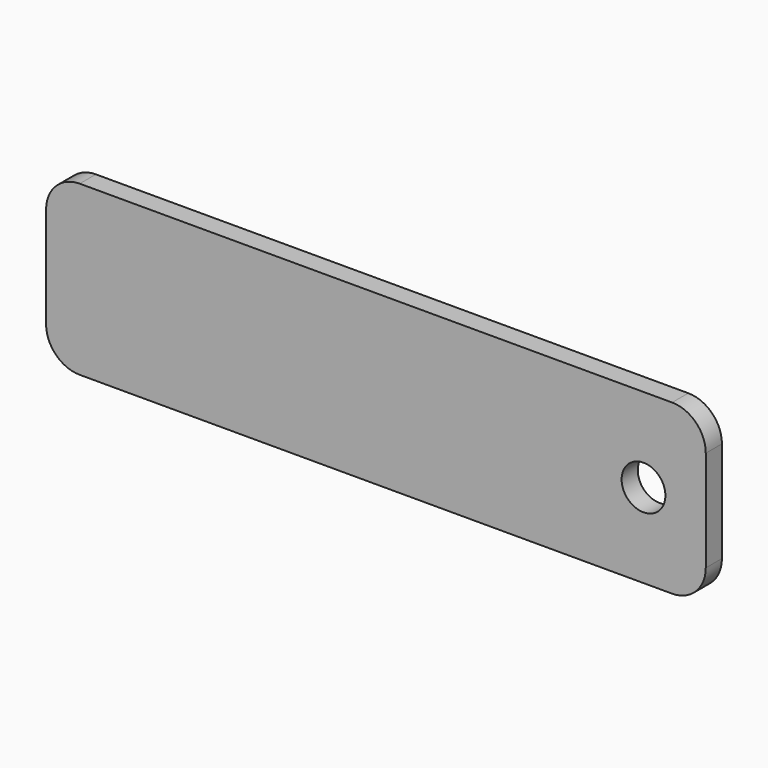
from build123d import *

# Parameters (mm, degrees)
F0_R     = 3.25
F1_DEPTH = 3


with BuildPart() as f1:
    # F0 (on Front) → F1 (new body)
    with BuildSketch(Plane.XZ):
        with BuildLine():
            Line((-44, -12.5), (44, -12.5))
            ThreePointArc((44, -12.5), (47.535534, -11.035534), (49, -7.5))
            Line((49, -7.5), (49, 7.5))
            ThreePointArc((49, 7.5), (47.535534, 11.035534), (44, 12.5))
            Line((44, 12.5), (-44, 12.5))
            ThreePointArc((-44, 12.5), (-47.535534, 11.035534), (-49, 7.5))
            Line((-49, 7.5), (-49, -7.5))
            ThreePointArc((-49, -7.5), (-47.535534, -11.035534), (-44, -12.5))
        make_face()
        with Locations((39.75, 0)):
            Circle(F0_R, mode=Mode.SUBTRACT)
    extrude(amount=F1_DEPTH)


solid = f1.part
